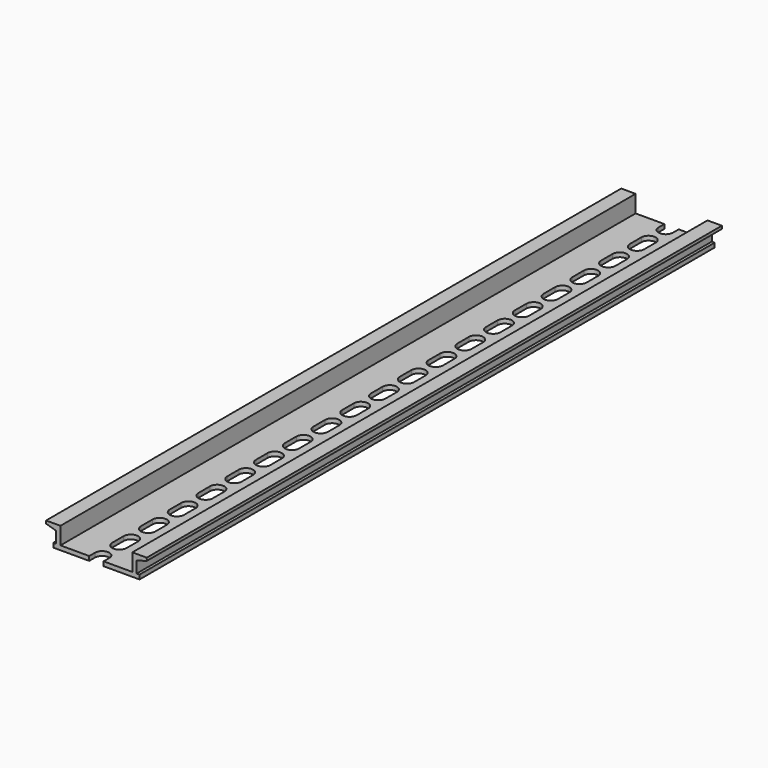
from build123d import *

# Parameters (mm, degrees)
PAD_DEPTH       = 250
POCKET_DEPTH    = 2
POCKET001_DEPTH = 3


with BuildPart() as part:
    # Sketch → Pad (new body)
    with BuildSketch(Plane.XZ):
        Polygon((0, 0), (-15, 0), (-15, 1.5), (-14, 1.5), (-14, 5.5), (-17.5, 6.5), (-17.5, 7.5), (-12.5, 7.5), (-12.5, 1.5), (0, 1.5), (12.5, 1.5), (12.5, 7.5), (17.5, 7.5), (17.51485, 6.5), (14, 5.5), (14, 1.5), (15, 1.5), (15, 0), align=None)
    extrude(amount=PAD_DEPTH)

    # Sketch001 (on Face10 of Pad) → Pocket (cut)
    with BuildSketch(Plane(origin=(0, 0, 1.5), x_dir=(-1, 0, 0), z_dir=(0, 0, 1))):
        with BuildLine():
            ThreePointArc((2.5, 2.5), (0, 5), (-2.5, 2.5))
            Line((-2.5, 2.5), (-2.5, -2.5))
            ThreePointArc((-2.5, -2.5), (0, -5), (2.5, -2.5))
            Line((2.5, 2.5), (2.5, -2.5))
        make_face()
        with BuildLine():
            ThreePointArc((2.5, 15), (0, 17.5), (-2.5, 15))
            Line((-2.5, 15), (-2.5, 10))
            ThreePointArc((-2.5, 10), (0, 7.5), (2.5, 10))
            Line((2.5, 15), (2.5, 10))
        make_face()
        with BuildLine():
            ThreePointArc((2.5, 27.5), (0, 30), (-2.5, 27.5))
            Line((-2.5, 27.5), (-2.5, 22.5))
            ThreePointArc((-2.5, 22.5), (0, 20), (2.5, 22.5))
            Line((2.5, 27.5), (2.5, 22.5))
        make_face()
        with BuildLine():
            ThreePointArc((2.5, 40), (0, 42.5), (-2.5, 40))
            Line((-2.5, 40), (-2.5, 35))
            ThreePointArc((-2.5, 35), (0, 32.5), (2.5, 35))
            Line((2.5, 40), (2.5, 35))
        make_face()
        with BuildLine():
            ThreePointArc((2.5, 52.5), (0, 55), (-2.5, 52.5))
            Line((-2.5, 52.5), (-2.5, 47.5))
            ThreePointArc((-2.5, 47.5), (0, 45), (2.5, 47.5))
            Line((2.5, 52.5), (2.5, 47.5))
        make_face()
        with BuildLine():
            ThreePointArc((2.5, 65), (0, 67.5), (-2.5, 65))
            Line((-2.5, 65), (-2.5, 60))
            ThreePointArc((-2.5, 60), (0, 57.5), (2.5, 60))
            Line((2.5, 65), (2.5, 60))
        make_face()
        with BuildLine():
            ThreePointArc((2.5, 77.5), (0, 80), (-2.5, 77.5))
            Line((-2.5, 77.5), (-2.5, 72.5))
            ThreePointArc((-2.5, 72.5), (0, 70), (2.5, 72.5))
            Line((2.5, 77.5), (2.5, 72.5))
        make_face()
        with BuildLine():
            ThreePointArc((2.5, 90), (0, 92.5), (-2.5, 90))
            Line((-2.5, 90), (-2.5, 85))
            ThreePointArc((-2.5, 85), (0, 82.5), (2.5, 85))
            Line((2.5, 90), (2.5, 85))
        make_face()
        with BuildLine():
            ThreePointArc((2.5, 102.5), (0, 105), (-2.5, 102.5))
            Line((-2.5, 102.5), (-2.5, 97.5))
            ThreePointArc((-2.5, 97.5), (0, 95), (2.5, 97.5))
            Line((2.5, 102.5), (2.5, 97.5))
        make_face()
        with BuildLine():
            ThreePointArc((2.5, 115), (0, 117.5), (-2.5, 115))
            Line((-2.5, 115), (-2.5, 110))
            ThreePointArc((-2.5, 110), (0, 107.5), (2.5, 110))
            Line((2.5, 115), (2.5, 110))
        make_face()
        with BuildLine():
            ThreePointArc((2.5, 127.5), (0, 130), (-2.5, 127.5))
            Line((-2.5, 127.5), (-2.5, 122.5))
            ThreePointArc((-2.5, 122.5), (0, 120), (2.5, 122.5))
            Line((2.5, 127.5), (2.5, 122.5))
        make_face()
        with BuildLine():
            ThreePointArc((2.5, 140), (0, 142.5), (-2.5, 140))
            Line((-2.5, 140), (-2.5, 135))
            ThreePointArc((-2.5, 135), (0, 132.5), (2.5, 135))
            Line((2.5, 140), (2.5, 135))
        make_face()
        with BuildLine():
            ThreePointArc((2.5, 152.5), (0, 155), (-2.5, 152.5))
            Line((-2.5, 152.5), (-2.5, 147.5))
            ThreePointArc((-2.5, 147.5), (0, 145), (2.5, 147.5))
            Line((2.5, 152.5), (2.5, 147.5))
        make_face()
        with BuildLine():
            ThreePointArc((2.5, 165), (0, 167.5), (-2.5, 165))
            Line((-2.5, 165), (-2.5, 160))
            ThreePointArc((-2.5, 160), (0, 157.5), (2.5, 160))
            Line((2.5, 165), (2.5, 160))
        make_face()
        with BuildLine():
            ThreePointArc((2.5, 177.5), (0, 180), (-2.5, 177.5))
            Line((-2.5, 177.5), (-2.5, 172.5))
            ThreePointArc((-2.5, 172.5), (0, 170), (2.5, 172.5))
            Line((2.5, 177.5), (2.5, 172.5))
        make_face()
        with BuildLine():
            ThreePointArc((2.5, 190), (0, 192.5), (-2.5, 190))
            Line((-2.5, 190), (-2.5, 185))
            ThreePointArc((-2.5, 185), (0, 182.5), (2.5, 185))
            Line((2.5, 190), (2.5, 185))
        make_face()
        with BuildLine():
            ThreePointArc((2.5, 202.5), (0, 205), (-2.5, 202.5))
            Line((-2.5, 202.5), (-2.5, 197.5))
            ThreePointArc((-2.5, 197.5), (0, 195), (2.5, 197.5))
            Line((2.5, 202.5), (2.5, 197.5))
        make_face()
        with BuildLine():
            ThreePointArc((2.5, 215), (0, 217.5), (-2.5, 215))
            Line((-2.5, 215), (-2.5, 210))
            ThreePointArc((-2.5, 210), (0, 207.5), (2.5, 210))
            Line((2.5, 215), (2.5, 210))
        make_face()
        with BuildLine():
            ThreePointArc((2.5, 227.5), (0, 230), (-2.5, 227.5))
            Line((-2.5, 227.5), (-2.5, 222.5))
            ThreePointArc((-2.5, 222.5), (0, 220), (2.5, 222.5))
            Line((2.5, 227.5), (2.5, 222.5))
        make_face()
        with BuildLine():
            ThreePointArc((2.5, 240), (0, 242.5), (-2.5, 240))
            Line((-2.5, 240), (-2.5, 235))
            ThreePointArc((-2.5, 235), (0, 232.5), (2.5, 235))
            Line((2.5, 240), (2.5, 235))
        make_face()
        with BuildLine():
            ThreePointArc((2.5, 252.5), (0, 255), (-2.5, 252.5))
            Line((-2.5, 252.5), (-2.5, 247.5))
            ThreePointArc((-2.5, 247.5), (0, 245), (2.5, 247.5))
            Line((2.5, 252.5), (2.5, 247.5))
        make_face()
        with BuildLine():
            ThreePointArc((2.5, 265), (0, 267.5), (-2.5, 265))
            Line((-2.5, 265), (-2.5, 260))
            ThreePointArc((-2.5, 260), (0, 257.5), (2.5, 260))
            Line((2.5, 265), (2.5, 260))
        make_face()
        with BuildLine():
            ThreePointArc((2.5, 277.5), (0, 280), (-2.5, 277.5))
            Line((-2.5, 277.5), (-2.5, 272.5))
            ThreePointArc((-2.5, 272.5), (0, 270), (2.5, 272.5))
            Line((2.5, 277.5), (2.5, 272.5))
        make_face()
        with BuildLine():
            ThreePointArc((-2.5, 285), (0, 282.5), (2.5, 285))
            Line((2.5, 285), (2.5, 290))
            ThreePointArc((2.5, 290), (0, 292.5), (-2.5, 290))
            Line((-2.5, 285), (-2.5, 290))
        make_face()
    extrude(amount=-POCKET_DEPTH, mode=Mode.SUBTRACT)

    # Sketch001 (on Face10 of Pad) → Pocket001 (cut)
    with BuildSketch(Plane(origin=(0, 0, 1.5), x_dir=(-1, 0, 0), z_dir=(0, 0, 1))):
        with BuildLine():
            ThreePointArc((2.5, 2.5), (0, 5), (-2.5, 2.5))
            Line((-2.5, 2.5), (-2.5, -2.5))
            ThreePointArc((-2.5, -2.5), (0, -5), (2.5, -2.5))
            Line((2.5, 2.5), (2.5, -2.5))
        make_face()
        with BuildLine():
            ThreePointArc((2.5, 15), (0, 17.5), (-2.5, 15))
            Line((-2.5, 15), (-2.5, 10))
            ThreePointArc((-2.5, 10), (0, 7.5), (2.5, 10))
            Line((2.5, 15), (2.5, 10))
        make_face()
        with BuildLine():
            ThreePointArc((2.5, 27.5), (0, 30), (-2.5, 27.5))
            Line((-2.5, 27.5), (-2.5, 22.5))
            ThreePointArc((-2.5, 22.5), (0, 20), (2.5, 22.5))
            Line((2.5, 27.5), (2.5, 22.5))
        make_face()
        with BuildLine():
            ThreePointArc((2.5, 40), (0, 42.5), (-2.5, 40))
            Line((-2.5, 40), (-2.5, 35))
            ThreePointArc((-2.5, 35), (0, 32.5), (2.5, 35))
            Line((2.5, 40), (2.5, 35))
        make_face()
        with BuildLine():
            ThreePointArc((2.5, 52.5), (0, 55), (-2.5, 52.5))
            Line((-2.5, 52.5), (-2.5, 47.5))
            ThreePointArc((-2.5, 47.5), (0, 45), (2.5, 47.5))
            Line((2.5, 52.5), (2.5, 47.5))
        make_face()
        with BuildLine():
            ThreePointArc((2.5, 65), (0, 67.5), (-2.5, 65))
            Line((-2.5, 65), (-2.5, 60))
            ThreePointArc((-2.5, 60), (0, 57.5), (2.5, 60))
            Line((2.5, 65), (2.5, 60))
        make_face()
        with BuildLine():
            ThreePointArc((2.5, 77.5), (0, 80), (-2.5, 77.5))
            Line((-2.5, 77.5), (-2.5, 72.5))
            ThreePointArc((-2.5, 72.5), (0, 70), (2.5, 72.5))
            Line((2.5, 77.5), (2.5, 72.5))
        make_face()
        with BuildLine():
            ThreePointArc((2.5, 90), (0, 92.5), (-2.5, 90))
            Line((-2.5, 90), (-2.5, 85))
            ThreePointArc((-2.5, 85), (0, 82.5), (2.5, 85))
            Line((2.5, 90), (2.5, 85))
        make_face()
        with BuildLine():
            ThreePointArc((2.5, 102.5), (0, 105), (-2.5, 102.5))
            Line((-2.5, 102.5), (-2.5, 97.5))
            ThreePointArc((-2.5, 97.5), (0, 95), (2.5, 97.5))
            Line((2.5, 102.5), (2.5, 97.5))
        make_face()
        with BuildLine():
            ThreePointArc((2.5, 115), (0, 117.5), (-2.5, 115))
            Line((-2.5, 115), (-2.5, 110))
            ThreePointArc((-2.5, 110), (0, 107.5), (2.5, 110))
            Line((2.5, 115), (2.5, 110))
        make_face()
        with BuildLine():
            ThreePointArc((2.5, 127.5), (0, 130), (-2.5, 127.5))
            Line((-2.5, 127.5), (-2.5, 122.5))
            ThreePointArc((-2.5, 122.5), (0, 120), (2.5, 122.5))
            Line((2.5, 127.5), (2.5, 122.5))
        make_face()
        with BuildLine():
            ThreePointArc((2.5, 140), (0, 142.5), (-2.5, 140))
            Line((-2.5, 140), (-2.5, 135))
            ThreePointArc((-2.5, 135), (0, 132.5), (2.5, 135))
            Line((2.5, 140), (2.5, 135))
        make_face()
        with BuildLine():
            ThreePointArc((2.5, 152.5), (0, 155), (-2.5, 152.5))
            Line((-2.5, 152.5), (-2.5, 147.5))
            ThreePointArc((-2.5, 147.5), (0, 145), (2.5, 147.5))
            Line((2.5, 152.5), (2.5, 147.5))
        make_face()
        with BuildLine():
            ThreePointArc((2.5, 165), (0, 167.5), (-2.5, 165))
            Line((-2.5, 165), (-2.5, 160))
            ThreePointArc((-2.5, 160), (0, 157.5), (2.5, 160))
            Line((2.5, 165), (2.5, 160))
        make_face()
        with BuildLine():
            ThreePointArc((2.5, 177.5), (0, 180), (-2.5, 177.5))
            Line((-2.5, 177.5), (-2.5, 172.5))
            ThreePointArc((-2.5, 172.5), (0, 170), (2.5, 172.5))
            Line((2.5, 177.5), (2.5, 172.5))
        make_face()
        with BuildLine():
            ThreePointArc((2.5, 190), (0, 192.5), (-2.5, 190))
            Line((-2.5, 190), (-2.5, 185))
            ThreePointArc((-2.5, 185), (0, 182.5), (2.5, 185))
            Line((2.5, 190), (2.5, 185))
        make_face()
        with BuildLine():
            ThreePointArc((2.5, 202.5), (0, 205), (-2.5, 202.5))
            Line((-2.5, 202.5), (-2.5, 197.5))
            ThreePointArc((-2.5, 197.5), (0, 195), (2.5, 197.5))
            Line((2.5, 202.5), (2.5, 197.5))
        make_face()
        with BuildLine():
            ThreePointArc((2.5, 215), (0, 217.5), (-2.5, 215))
            Line((-2.5, 215), (-2.5, 210))
            ThreePointArc((-2.5, 210), (0, 207.5), (2.5, 210))
            Line((2.5, 215), (2.5, 210))
        make_face()
        with BuildLine():
            ThreePointArc((2.5, 227.5), (0, 230), (-2.5, 227.5))
            Line((-2.5, 227.5), (-2.5, 222.5))
            ThreePointArc((-2.5, 222.5), (0, 220), (2.5, 222.5))
            Line((2.5, 227.5), (2.5, 222.5))
        make_face()
        with BuildLine():
            ThreePointArc((2.5, 240), (0, 242.5), (-2.5, 240))
            Line((-2.5, 240), (-2.5, 235))
            ThreePointArc((-2.5, 235), (0, 232.5), (2.5, 235))
            Line((2.5, 240), (2.5, 235))
        make_face()
        with BuildLine():
            ThreePointArc((2.5, 252.5), (0, 255), (-2.5, 252.5))
            Line((-2.5, 252.5), (-2.5, 247.5))
            ThreePointArc((-2.5, 247.5), (0, 245), (2.5, 247.5))
            Line((2.5, 252.5), (2.5, 247.5))
        make_face()
        with BuildLine():
            ThreePointArc((2.5, 265), (0, 267.5), (-2.5, 265))
            Line((-2.5, 265), (-2.5, 260))
            ThreePointArc((-2.5, 260), (0, 257.5), (2.5, 260))
            Line((2.5, 265), (2.5, 260))
        make_face()
        with BuildLine():
            ThreePointArc((2.5, 277.5), (0, 280), (-2.5, 277.5))
            Line((-2.5, 277.5), (-2.5, 272.5))
            ThreePointArc((-2.5, 272.5), (0, 270), (2.5, 272.5))
            Line((2.5, 277.5), (2.5, 272.5))
        make_face()
        with BuildLine():
            ThreePointArc((-2.5, 285), (0, 282.5), (2.5, 285))
            Line((2.5, 285), (2.5, 290))
            ThreePointArc((2.5, 290), (0, 292.5), (-2.5, 290))
            Line((-2.5, 285), (-2.5, 290))
        make_face()
    extrude(amount=-POCKET001_DEPTH, mode=Mode.SUBTRACT)


solid = part.part
